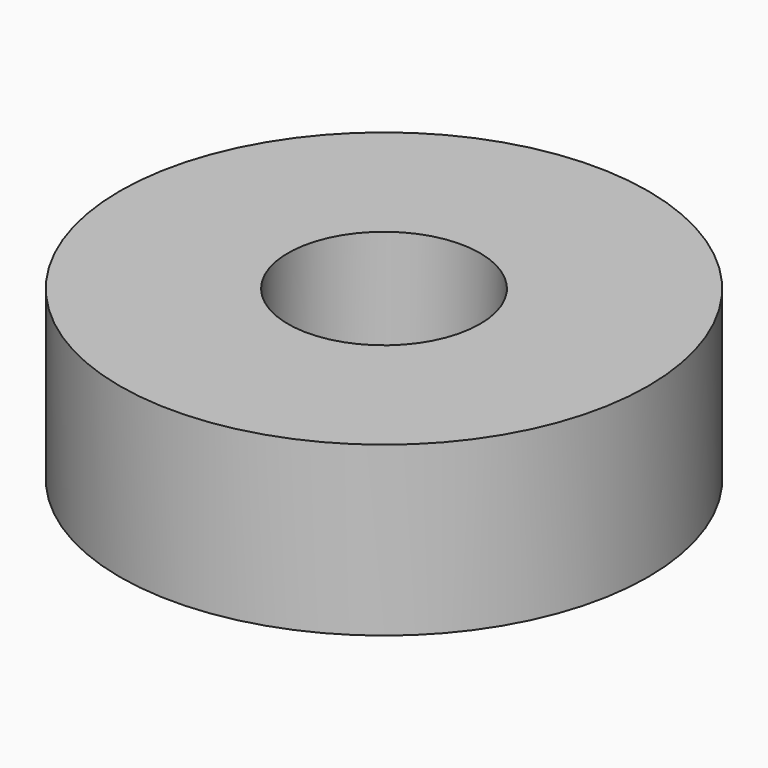
from build123d import *

# Parameters (mm, degrees)
CYLINDER008_R     = 4
CYLINDER008_DEPTH = 7
CYLINDER007_R     = 11
CYLINDER007_DEPTH = 7


with BuildPart() as cylinder008:
    # Cylinder008 → Cylinder008 (new body)
    with BuildSketch(Plane.XY):
        Circle(CYLINDER008_R)
    extrude(amount=CYLINDER008_DEPTH)


with BuildPart() as cut003:
    # Cylinder007 → Cylinder007 (new body)
    with BuildSketch(Plane.XY):
        Circle(CYLINDER007_R)
    extrude(amount=CYLINDER007_DEPTH)

    # Cut003: cut Cylinder008
    add(cylinder008.part, mode=Mode.SUBTRACT)


with BuildPart() as cut003_1:
    # Cut003 placement: moved
    add(cut003.part.moved(Location((0, 0, -2))))


solid = cut003_1.part
